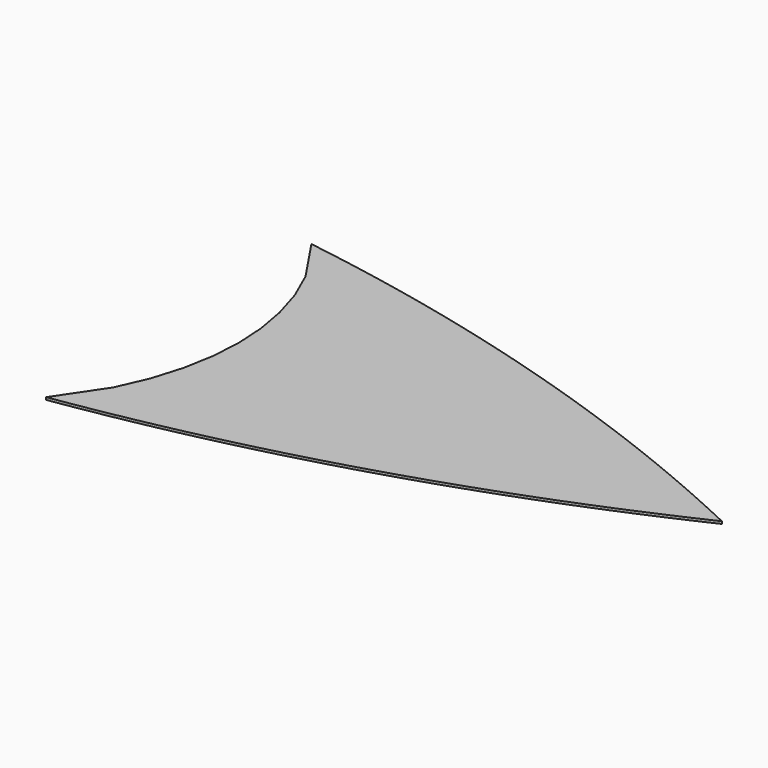
from build123d import *

# Parameters (mm, degrees)
F1_DEPTH = 4


with BuildPart() as f1:
    # F0 (on Top) → F1 (new body)
    with BuildSketch(Plane.XY):
        with BuildLine():
            Line((100, 259.04178), (100, 0))
            Line((100, 0), (200, 0))
            Line((200, 0), (200, 238.894733))
            ThreePointArc((200, 238.894733), (150.077853, 249.354678), (100, 259.04178))
        make_face()
        with BuildLine():
            Line((100, -259.04178), (100, 0))
            Line((100, 0), (97, -50))
            Line((97, -50), (88, -100))
            Line((88, -100), (73, -150))
            Line((73, -150), (51, -200))
            Line((51, -200), (0, -276))
            ThreePointArc((0, -276), (50.065157, -267.905109), (100, -259.04178))
        make_face()
        with BuildLine():
            Line((200, 0), (100, 0))
            Line((100, 0), (100, -259.04178))
            ThreePointArc((100, -259.04178), (150.077853, -249.354678), (200, -238.894733))
            Line((200, -238.894733), (200, 0))
        make_face()
        with BuildLine():
            Line((97, 50), (100, 0))
            Line((100, 0), (100, 259.04178))
            ThreePointArc((100, 259.04178), (50.065157, 267.905109), (0, 276))
            Line((0, 276), (51, 200))
            Line((51, 200), (73, 150))
            Line((73, 150), (88, 100))
            Line((88, 100), (97, 50))
        make_face()
        with BuildLine():
            Line((200, 238.894733), (200, 0))
            Line((200, 0), (300, 0))
            Line((300, 0), (300, 215.498649))
            ThreePointArc((300, 215.498649), (250.09102, 227.585731), (200, 238.894733))
        make_face()
        with BuildLine():
            Line((300, 0), (200, 0))
            Line((200, 0), (200, -238.894733))
            ThreePointArc((200, -238.894733), (250.09102, -227.585731), (300, -215.498649))
            Line((300, -215.498649), (300, 0))
        make_face()
        with BuildLine():
            Line((300, 215.498649), (300, 0))
            Line((300, 0), (400, 0))
            Line((400, 0), (400, 188.781693))
            ThreePointArc((400, 188.781693), (350.104757, 202.532269), (300, 215.498649))
        make_face()
        with BuildLine():
            Line((400, 0), (300, 0))
            Line((300, 0), (300, -215.498649))
            ThreePointArc((300, -215.498649), (350.104757, -202.532269), (400, -188.781693))
            Line((400, -188.781693), (400, 0))
        make_face()
        with BuildLine():
            Line((400, 188.781693), (400, 0))
            Line((400, 0), (500, 0))
            Line((500, 0), (500, 158.659213))
            ThreePointArc((500, 158.659213), (450.119172, 174.116078), (400, 188.781693))
        make_face()
        with BuildLine():
            Line((500, 0), (400, 0))
            Line((400, 0), (400, -188.781693))
            ThreePointArc((400, -188.781693), (450.119172, -174.116078), (500, -158.659213))
            Line((500, -158.659213), (500, 0))
        make_face()
        with BuildLine():
            Line((500, 158.659213), (500, 0))
            Line((500, 0), (600, 0))
            Line((600, 0), (600, 125.032279))
            ThreePointArc((600, 125.032279), (550.134392, 142.245402), (500, 158.659213))
        make_face()
        with BuildLine():
            Line((600, 0), (500, 0))
            Line((500, 0), (500, -158.659213))
            ThreePointArc((500, -158.659213), (550.134392, -142.245402), (600, -125.032279))
            Line((600, -125.032279), (600, 0))
        make_face()
        with BuildLine():
            Line((600, 125.032279), (600, 0))
            Line((600, 0), (700, 0))
            Line((700, 0), (700, 87.785862))
            ThreePointArc((700, 87.785862), (650.150563, 106.813306), (600, 125.032279))
        make_face()
        with BuildLine():
            Line((700, 0), (600, 0))
            Line((600, 0), (600, -125.032279))
            ThreePointArc((600, -125.032279), (650.150563, -106.813306), (700, -87.785862))
            Line((700, -87.785862), (700, 0))
        make_face()
        with BuildLine():
            Line((700, 87.785862), (700, 0))
            Line((700, 0), (800, 0))
            Line((800, 0), (800, 46.786597))
            ThreePointArc((800, 46.786597), (750.167857, 67.695645), (700, 87.785862))
        make_face()
        with BuildLine():
            Line((800, 0), (700, 0))
            Line((700, 0), (700, -87.785862))
            ThreePointArc((700, -87.785862), (750.167857, -67.695645), (800, -46.786597))
            Line((800, -46.786597), (800, 0))
        make_face()
        with BuildLine():
            Line((800, 46.786597), (800, 0))
            Line((800, 0), (904, 0))
            ThreePointArc((904, 0), (852.202118, 23.842578), (800, 46.786597))
        make_face()
        with BuildLine():
            Line((904, 0), (800, 0))
            Line((800, 0), (800, -46.786597))
            ThreePointArc((800, -46.786597), (852.202118, -23.842578), (904, 0))
        make_face()
    extrude(amount=F1_DEPTH)


solid = f1.part
